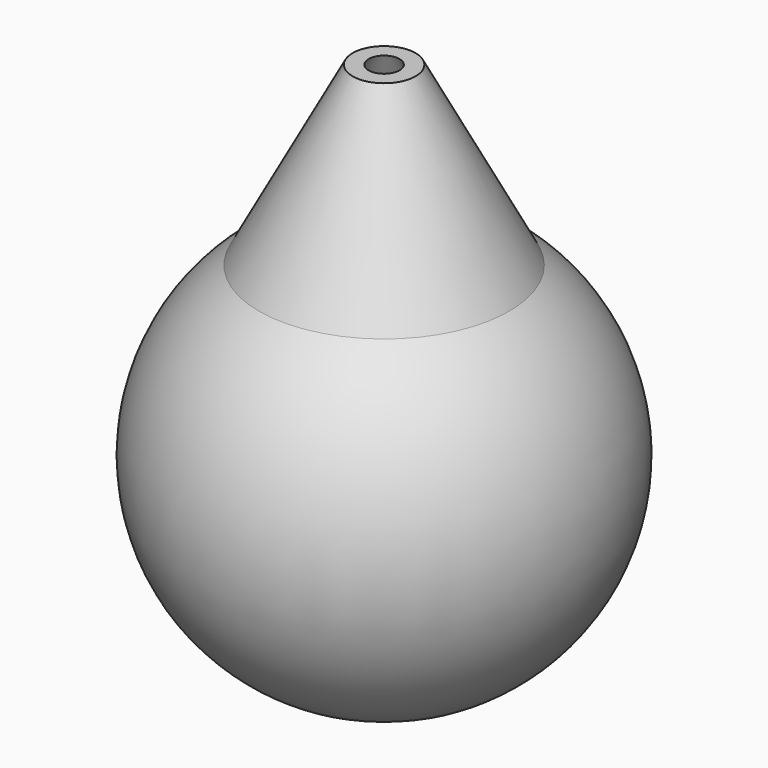
from build123d import *


with BuildPart() as f1:
    # F0 (on Front) → F1 (revolve)
    with BuildSketch(Plane.XZ):
        with BuildLine():
            Line((-4.851975, 52.991167), (-19.31276, 25.782058))
            ThreePointArc((-19.31276, 25.782058), (-32.16, -1.852469), (-16.224671, -27.829072))
            Line((-16.224671, -27.829072), (0, -27.829072))
            Line((0, -27.829072), (0, -24.259869))
            Line((0, -24.259869), (-17.410023, -24.259869))
            ThreePointArc((-17.410023, -24.259869), (-29.860512, 0), (-17.410023, 24.259869))
            Line((-17.410023, 24.259869), (-2.378419, 52.991167))
            Line((-2.378419, 52.991167), (-4.851975, 52.991167))
        make_face()
    revolve(axis=Axis((0, 0, 11.130998), (0, 0, -1)))


solid = f1.part
